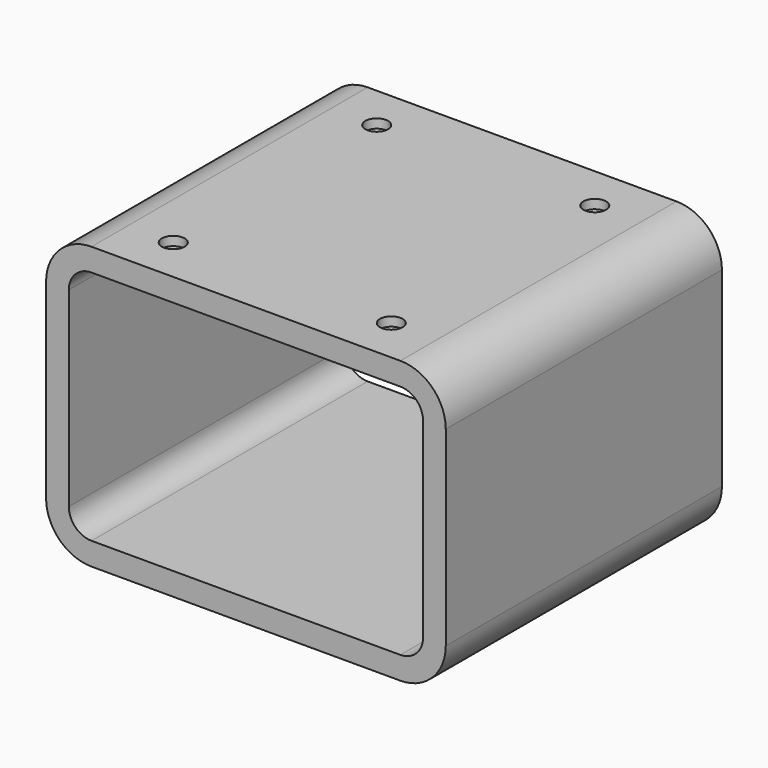
from build123d import *

# Parameters (mm, degrees)
F1_DEPTH = 380
F2_R     = 25
F3_DEPTH = 10
F4_R     = 12.5
F5_DEPTH = 10


with BuildPart() as f1:
    # F0 (on Front) → F1 (new body)
    with BuildSketch(Plane.XZ):
        with BuildLine():
            ThreePointArc((-220, -105), (-205.355339, -140.355339), (-170, -155))
            Line((-170, -155), (170, -155))
            ThreePointArc((170, -155), (205.355339, -140.355339), (220, -105))
            Line((220, -105), (220, 105))
            ThreePointArc((220, 105), (205.355339, 140.355339), (170, 155))
            Line((170, 155), (-170, 155))
            ThreePointArc((-170, 155), (-205.355339, 140.355339), (-220, 105))
            Line((-220, 105), (-220, -105))
        make_face()
        with BuildLine():
            ThreePointArc((195, -105), (187.67767, -122.67767), (170, -130))
            Line((170, -130), (-170, -130))
            ThreePointArc((-170, -130), (-187.67767, -122.67767), (-195, -105))
            Line((-195, -105), (-195, 105))
            ThreePointArc((-195, 105), (-187.67767, 122.67767), (-170, 130))
            Line((-170, 130), (170, 130))
            ThreePointArc((170, 130), (187.67767, 122.67767), (195, 105))
            Line((195, 105), (195, -105))
        make_face(mode=Mode.SUBTRACT)
    extrude(amount=F1_DEPTH)

    # F2 (on face) → F3 (cut)
    with BuildSketch(Plane(origin=(0, 0, -155), x_dir=(1, 0, 0), z_dir=(0, 0, -1))):
        with Locations((-120, 50)):
            Circle(F2_R)
        with Locations((-120, 330)):
            Circle(F2_R)
        with Locations((120, 50)):
            Circle(F2_R)
        with Locations((120, 330)):
            Circle(F2_R)
    extrude(amount=-F3_DEPTH, mode=Mode.SUBTRACT)

    # F4 (on face) → F5 (cut)
    with BuildSketch(Plane.XY.offset(155)):
        with Locations((-120, -50)):
            Circle(F4_R)
        with Locations((-120, -330)):
            Circle(F4_R)
        with Locations((120, -330)):
            Circle(F4_R)
        with Locations((120, -50)):
            Circle(F4_R)
    extrude(amount=-F5_DEPTH, mode=Mode.SUBTRACT)


solid = f1.part
